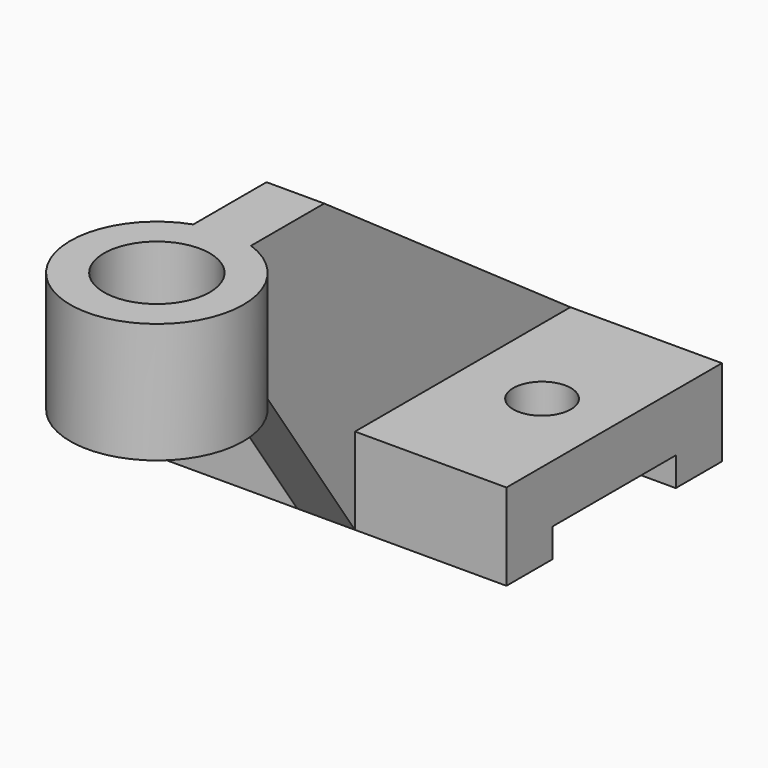
from build123d import *

# Parameters (mm, degrees)
F1_DEPTH = 37.5
F2_R     = 6
F3_DEPTH = 25
F6_R     = 18
F6_R_2   = 11
F7_DEPTH = 25
F9_DEPTH = 6


with BuildPart() as f1:
    # F0 (on Right) → F1 (new body, symmetric)
    with BuildSketch(Plane.YZ):
        Polygon((-28, 18), (-28, 0), (-16, 0), (-16, 6), (16, 6), (16, 0), (28, 0), (28, 18), align=None)
    extrude(amount=F1_DEPTH, both=True)

    # F2 (on face) → F3 (cut)
    with BuildSketch(Plane.XY.offset(18)):
        with Locations((22.5, 0)):
            Circle(F2_R)
        with Locations((-22.5, 0)):
            Circle(F2_R)
    extrude(amount=-F3_DEPTH, mode=Mode.SUBTRACT)



with BuildPart() as f7:
    # F6 (on offset) → F7 (new body)
    with BuildSketch(Plane.XY.offset(63)):
        with Locations((0, -72)):
            Circle(F6_R)
        with Locations((0, -72)):
            Circle(F6_R_2, mode=Mode.SUBTRACT)
    extrude(amount=-F7_DEPTH)


with BuildPart() as f1_1:
    add(f1.part)

    add(f7.part)  # F9 merges F7
    # F8 (on Right) → F9 (join, symmetric)
    with BuildSketch(Plane.YZ):
        Polygon((-54, 38), (-28, 0), (-28, 18), (28, 18), (-36, 63), (-59.1356679797, 63), (-59.1356679797, 38), align=None)
    extrude(amount=F9_DEPTH, both=True)


solid = f1_1.part
